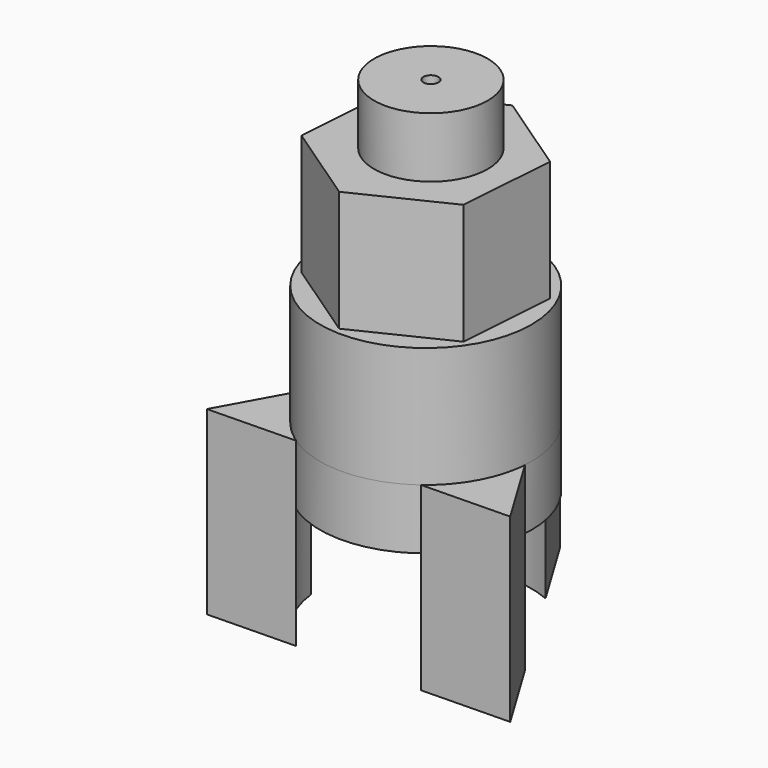
from build123d import *

# Parameters (mm, degrees)
F0_R     = 44.6141423475
F1_DEPTH = 50.8
F3_DEPTH = 50.8
F5_DEPTH = 76.2
F6_DEPTH = 25.4
F7_R     = 23.9448612964
F8_DEPTH = 25.4
F11_D    = 6.35


with BuildPart() as f1:
    # F0 (on Top) → F1 (new body)
    with BuildSketch(Plane.XY):
        with Locations((7.6353494078, 21.5649604797)):
            Circle(F0_R)
    extrude(amount=F1_DEPTH)

    # F2 (on face) → F3 (join)
    with BuildSketch(Plane.XY.offset(50.8)):
        Polygon((10.6493027537, 63.4105465469), (-27.0970144897, 45.0979136767), (-30.1109678356, 3.2523276095), (4.6213960619, -20.2806255875), (42.3677133053, -1.9679927173), (45.3816666512, 39.8775933499), align=None)
    extrude(amount=F3_DEPTH)


with BuildPart() as f5:
    # F4 (on face) → F5 (new body)
    with BuildSketch(Plane(origin=(0, 0, 0), x_dir=(1, 0, 0), z_dir=(0, 0, -1))):
        with BuildLine():
            Line((-54.5576916577, 16.0181814927), (-36.6815848341, -16.4238480705))
            ThreePointArc((-36.6815848341, -16.4238480705), (-30.5483654923, 1.509389215), (-17.5240164939, 15.2783293412))
            Line((-17.5240164939, 15.2783293412), (-54.5576916577, 16.0181814927))
        make_face()
    extrude(amount=F5_DEPTH)


with BuildPart() as f5b:
    # F4 (on face) → F5, piece 2 (new body)
    with BuildSketch(Plane(origin=(0, 0, 0), x_dir=(1, 0, 0), z_dir=(0, 0, -1))):
        with BuildLine():
            ThreePointArc((34.2461504788, 14.2440741869), (46.7101798692, -0.0340682128), (52.1222573025, -18.1979553762))
            Line((52.1222573025, -18.1979553762), (71.2798256427, 13.5042220354))
            Line((71.2798256427, 13.5042220354), (34.2461504788, 14.2440741869))
        make_face()
    extrude(amount=F5_DEPTH)


with BuildPart() as f5c:
    # F4 (on face) → F5, piece 3 (new body)
    with BuildSketch(Plane(origin=(0, 0, 0), x_dir=(1, 0, 0), z_dir=(0, 0, -1))):
        with BuildLine():
            Line((-11.6921925853, -61.7752554041), (6.1839142384, -94.2172849673))
            Line((6.1839142384, -94.2172849673), (25.3414825786, -62.5151075557))
            ThreePointArc((25.3414825786, -62.5151075557), (6.7442338464, -66.1702024414), (-11.6921925853, -61.7752554041))
        make_face()
    extrude(amount=F5_DEPTH)


with BuildPart() as f6:
    # F6 (new): a face of the model
    f6_faces = [f1.part.faces().sort_by_distance(p)[0] for p in [
        (7.6353494078, 21.5649604797, 0),
    ]]
    extrude(f6_faces, amount=F6_DEPTH)


with BuildPart() as f1_1:
    add(f1.part)

    # F7 (on face) → F8 (join)
    with BuildSketch(Plane.XY.offset(101.6)):
        with Locations((8.7334895507, 22.8941198438)):
            Circle(F7_R)
    extrude(amount=F8_DEPTH)

    # F11 (through all)
    with Locations(Plane.XY.offset(127)):
        with Locations((8.7334895507, 22.8941198438)):
            Hole(F11_D / 2)


solid = Compound([f5.part, f5b.part, f5c.part, f6.part, f1_1.part])
